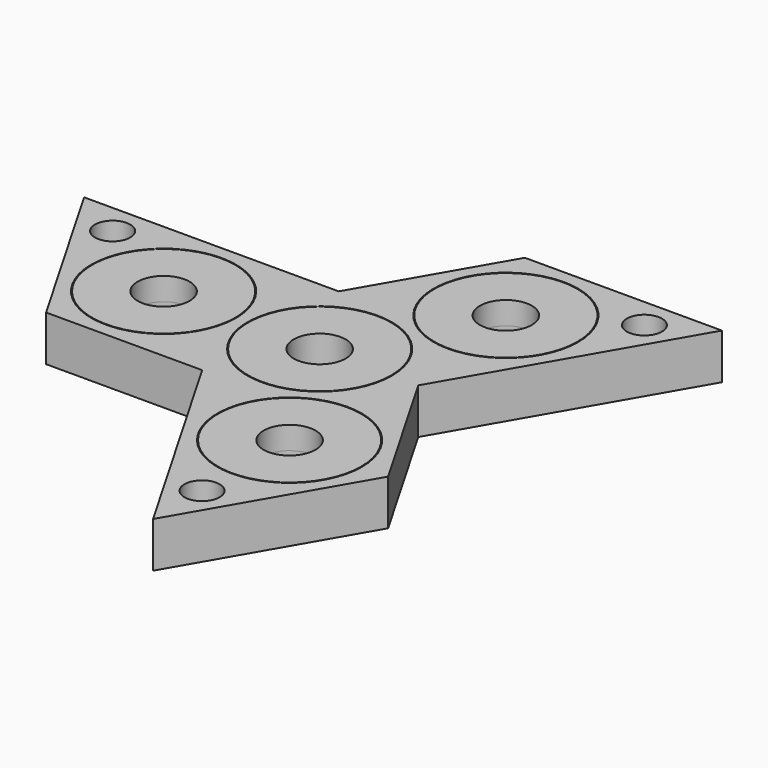
from build123d import *

# Parameters (mm, degrees)
F0_R     = 11
F0_R_2   = 4
F1_DEPTH = 3.5
F2_R     = 4
F3_DEPTH = 3.5
F2_R_2   = 2.7066666667
F2_R_3   = 11.12


with BuildPart() as f1:
    # F0 (on Top) → F1 (new body, symmetric)
    with BuildSketch(Plane.XY):
        Circle(F0_R)
        Circle(F0_R_2, mode=Mode.SUBTRACT)
    extrude(amount=F1_DEPTH, both=True)


with BuildPart() as f3:
    # F2 (on Top) → F3 (new body, symmetric)
    with BuildSketch(Plane.XY):
        with BuildLine():
            ThreePointArc((-13.0653, -1.1968023688), (-13.12, 0), (-13.0653, 1.1968023688))
            ThreePointArc((-13.0653, 1.1968023688), (-35, 0), (-13.0653, -1.1968023688))
        make_face()
        with Locations((-24, 0)):
            Circle(F2_R, mode=Mode.SUBTRACT)
        with BuildLine():
            ThreePointArc((-13.0653, -1.1968023688), (-13.0163371319, -0.5992912481), (-13, 0))
            ThreePointArc((-13, 0), (-13.0163371319, 0.5992912481), (-13.0653, 1.1968023688))
            ThreePointArc((-13.0653, 1.1968023688), (-13.12, 0), (-13.0653, -1.1968023688))
        make_face()
        with BuildLine():
            ThreePointArc((-13.0653, -1.1968023688), (-13.12, 0), (-13.0653, 1.1968023688))
            ThreePointArc((-13.0653, 1.1968023688), (-35, 0), (-13.0653, -1.1968023688))
        make_face()
        with Locations((-24, 0)):
            Circle(F2_R, mode=Mode.SUBTRACT)
    extrude(amount=F3_DEPTH, both=True)


with BuildPart() as f3b:
    # F2 (on Top) → F3, piece 2 (new body, symmetric)
    with BuildSketch(Plane.XY):
        with BuildLine():
            ThreePointArc((23, 20.7846096908), (7.027170011, 30.5963863852), (5.4961887453, 11.9132828925))
            ThreePointArc((5.4961887453, 11.9132828925), (6.56, 11.3622532977), (7.5691112547, 10.7164805237))
            ThreePointArc((7.5691112547, 10.7164805237), (18.0108328791, 11.5721242445), (23, 20.7846096908))
        make_face()
        with Locations((12, 20.7846096908)):
            Circle(F2_R, mode=Mode.SUBTRACT)
        with BuildLine():
            ThreePointArc((7.5691112547, 10.7164805237), (6.56, 11.3622532977), (5.4961887453, 11.9132828925))
            ThreePointArc((5.4961887453, 11.9132828925), (6.5, 11.2583302492), (7.5691112547, 10.7164805237))
        make_face()
    extrude(amount=F3_DEPTH, both=True)


with BuildPart() as f3c:
    # F2 (on Top) → F3, piece 3 (new body, symmetric)
    with BuildSketch(Plane.XY):
        with BuildLine():
            ThreePointArc((7.5691112547, -10.7164805237), (6.56, -11.3622532977), (5.4961887453, -11.9132828925))
            ThreePointArc((5.4961887453, -11.9132828925), (7.027170011, -30.5963863852), (23, -20.7846096908))
            ThreePointArc((23, -20.7846096908), (18.0108328791, -11.5721242445), (7.5691112547, -10.7164805237))
        make_face()
        with Locations((12, -20.7846096908)):
            Circle(F2_R, mode=Mode.SUBTRACT)
        with BuildLine():
            ThreePointArc((7.5691112547, -10.7164805237), (6.5, -11.2583302492), (5.4961887453, -11.9132828925))
            ThreePointArc((5.4961887453, -11.9132828925), (6.56, -11.3622532977), (7.5691112547, -10.7164805237))
        make_face()
    extrude(amount=F3_DEPTH, both=True)


with BuildPart() as f3d:
    # F2 (on Top) → F3, piece 4 (new body, symmetric)
    with BuildSketch(Plane.XY):
        with BuildLine():
            ThreePointArc((-13.01, -1.6953760645), (-35.12, 0), (-13.01, 1.6953760645))
            ThreePointArc((-13.01, 1.6953760645), (-8.657108814, 9.8584414074), (0, 13.12))
            Line((0, 13.12), (-7.5748355318, 13.12))
            Line((-7.5748355318, 13.12), (-46.7245065953, 13.12))
            Line((-46.7245065953, 13.12), (-31.5748355318, -13.12))
            Line((-31.5748355318, -13.12), (-7.5748355318, -13.12))
            Line((-7.5748355318, -13.12), (-11.3622532977, -6.56))
            ThreePointArc((-11.3622532977, -6.56), (-12.4264968599, -4.2091062935), (-13.01, -1.6953760645))
        make_face()
        with Locations((-38.5723207943, 8.4133333333)):
            Circle(F2_R_2, mode=Mode.SUBTRACT)
        with BuildLine():
            ThreePointArc((0, 13.12), (-8.657108814, 9.8584414074), (-13.01, 1.6953760645))
            ThreePointArc((-13.01, 1.6953760645), (-12.9125476326, 0.8501764523), (-12.88, 0))
            ThreePointArc((-12.88, 0), (-12.9125476326, -0.8501764523), (-13.01, -1.6953760645))
            ThreePointArc((-13.01, -1.6953760645), (-12.4264968599, -4.2091062935), (-11.3622532977, -6.56))
            ThreePointArc((-11.3622532977, -6.56), (-4.2091062935, -12.4264968599), (5.0367612592, -12.1146785355))
            ThreePointArc((5.0367612592, -12.1146785355), (6.44, -11.1544072007), (7.9732387408, -10.419302471))
            ThreePointArc((7.9732387408, -10.419302471), (9.8584414074, -8.657108814), (11.3622532977, -6.56))
            ThreePointArc((11.3622532977, -6.56), (12.6729468409, -3.3957058717), (13.12, 0))
            ThreePointArc((13.12, 0), (11.7631477989, 5.8105725932), (7.9732387408, 10.419302471))
            ThreePointArc((7.9732387408, 10.419302471), (6.44, 11.1544072007), (5.0367612592, 12.1146785355))
            ThreePointArc((5.0367612592, 12.1146785355), (2.5680554525, 12.8662151075), (0, 13.12))
        make_face()
        Circle(F2_R_3, mode=Mode.SUBTRACT)
        with BuildLine():
            ThreePointArc((0, 13.12), (-8.657108814, 9.8584414074), (-13.01, 1.6953760645))
            ThreePointArc((-13.01, 1.6953760645), (-12.9125476326, 0.8501764523), (-12.88, 0))
            ThreePointArc((-12.88, 0), (-12.9125476326, -0.8501764523), (-13.01, -1.6953760645))
            ThreePointArc((-13.01, -1.6953760645), (-12.4264968599, -4.2091062935), (-11.3622532977, -6.56))
            ThreePointArc((-11.3622532977, -6.56), (-4.2091062935, -12.4264968599), (5.0367612592, -12.1146785355))
            ThreePointArc((5.0367612592, -12.1146785355), (6.44, -11.1544072007), (7.9732387408, -10.419302471))
            ThreePointArc((7.9732387408, -10.419302471), (9.8584414074, -8.657108814), (11.3622532977, -6.56))
            ThreePointArc((11.3622532977, -6.56), (12.6729468409, -3.3957058717), (13.12, 0))
            ThreePointArc((13.12, 0), (11.7631477989, 5.8105725932), (7.9732387408, 10.419302471))
            ThreePointArc((7.9732387408, 10.419302471), (6.44, 11.1544072007), (5.0367612592, 12.1146785355))
            ThreePointArc((5.0367612592, 12.1146785355), (2.5680554525, 12.8662151075), (0, 13.12))
        make_face()
        Circle(F2_R_3, mode=Mode.SUBTRACT)
        with BuildLine():
            ThreePointArc((5.0367612592, -12.1146785355), (-4.2091062935, -12.4264968599), (-11.3622532977, -6.56))
            Line((-11.3622532977, -6.56), (-7.5748355318, -13.12))
            Line((-7.5748355318, -13.12), (12, -47.0246096908))
            Line((12, -47.0246096908), (27.1496710635, -20.7846096908))
            Line((27.1496710635, -20.7846096908), (15.1496710635, 0))
            Line((15.1496710635, 0), (11.3622532977, -6.56))
            ThreePointArc((11.3622532977, -6.56), (9.8584414074, -8.657108814), (7.9732387408, -10.419302471))
            ThreePointArc((7.9732387408, -10.419302471), (18.2800005891, -11.6076825035), (23.12, -20.7846096908))
            ThreePointArc((23.12, -20.7846096908), (7.1925482217, -30.8117133304), (5.0367612592, -12.1146785355))
        make_face()
        with Locations((12, -37.6112763575)):
            Circle(F2_R_2, mode=Mode.SUBTRACT)
        with BuildLine():
            ThreePointArc((0, 13.12), (-8.657108814, 9.8584414074), (-13.01, 1.6953760645))
            ThreePointArc((-13.01, 1.6953760645), (-12.9125476326, 0.8501764523), (-12.88, 0))
            ThreePointArc((-12.88, 0), (-12.9125476326, -0.8501764523), (-13.01, -1.6953760645))
            ThreePointArc((-13.01, -1.6953760645), (-12.4264968599, -4.2091062935), (-11.3622532977, -6.56))
            ThreePointArc((-11.3622532977, -6.56), (-4.2091062935, -12.4264968599), (5.0367612592, -12.1146785355))
            ThreePointArc((5.0367612592, -12.1146785355), (6.44, -11.1544072007), (7.9732387408, -10.419302471))
            ThreePointArc((7.9732387408, -10.419302471), (9.8584414074, -8.657108814), (11.3622532977, -6.56))
            ThreePointArc((11.3622532977, -6.56), (12.6729468409, -3.3957058717), (13.12, 0))
            ThreePointArc((13.12, 0), (11.7631477989, 5.8105725932), (7.9732387408, 10.419302471))
            ThreePointArc((7.9732387408, 10.419302471), (6.44, 11.1544072007), (5.0367612592, 12.1146785355))
            ThreePointArc((5.0367612592, 12.1146785355), (2.5680554525, 12.8662151075), (0, 13.12))
        make_face()
        Circle(F2_R_3, mode=Mode.SUBTRACT)
        with BuildLine():
            Line((-7.5748355318, 13.12), (0, 13.12))
            ThreePointArc((0, 13.12), (2.5680554525, 12.8662151075), (5.0367612592, 12.1146785355))
            ThreePointArc((5.0367612592, 12.1146785355), (7.1925482217, 30.8117133304), (23.12, 20.7846096908))
            ThreePointArc((23.12, 20.7846096908), (18.2800005891, 11.6076825035), (7.9732387408, 10.419302471))
            ThreePointArc((7.9732387408, 10.419302471), (11.7631477989, 5.8105725932), (13.12, 0))
            ThreePointArc((13.12, 0), (12.6729468409, -3.3957058717), (11.3622532977, -6.56))
            Line((11.3622532977, -6.56), (15.1496710635, 0))
            Line((15.1496710635, 0), (34.7245065953, 33.9046096908))
            Line((34.7245065953, 33.9046096908), (4.4251644682, 33.9046096908))
            Line((4.4251644682, 33.9046096908), (-7.5748355318, 13.12))
        make_face()
        with Locations((26.5723207943, 29.1979430242)):
            Circle(F2_R_2, mode=Mode.SUBTRACT)
        with BuildLine():
            ThreePointArc((0, 13.12), (-8.657108814, 9.8584414074), (-13.01, 1.6953760645))
            ThreePointArc((-13.01, 1.6953760645), (-12.9125476326, 0.8501764523), (-12.88, 0))
            ThreePointArc((-12.88, 0), (-12.9125476326, -0.8501764523), (-13.01, -1.6953760645))
            ThreePointArc((-13.01, -1.6953760645), (-12.4264968599, -4.2091062935), (-11.3622532977, -6.56))
            ThreePointArc((-11.3622532977, -6.56), (-4.2091062935, -12.4264968599), (5.0367612592, -12.1146785355))
            ThreePointArc((5.0367612592, -12.1146785355), (6.44, -11.1544072007), (7.9732387408, -10.419302471))
            ThreePointArc((7.9732387408, -10.419302471), (9.8584414074, -8.657108814), (11.3622532977, -6.56))
            ThreePointArc((11.3622532977, -6.56), (12.6729468409, -3.3957058717), (13.12, 0))
            ThreePointArc((13.12, 0), (11.7631477989, 5.8105725932), (7.9732387408, 10.419302471))
            ThreePointArc((7.9732387408, 10.419302471), (6.44, 11.1544072007), (5.0367612592, 12.1146785355))
            ThreePointArc((5.0367612592, 12.1146785355), (2.5680554525, 12.8662151075), (0, 13.12))
        make_face()
        Circle(F2_R_3, mode=Mode.SUBTRACT)
    extrude(amount=F3_DEPTH, both=True)


solid = Compound([f1.part, f3.part, f3b.part, f3c.part, f3d.part])
